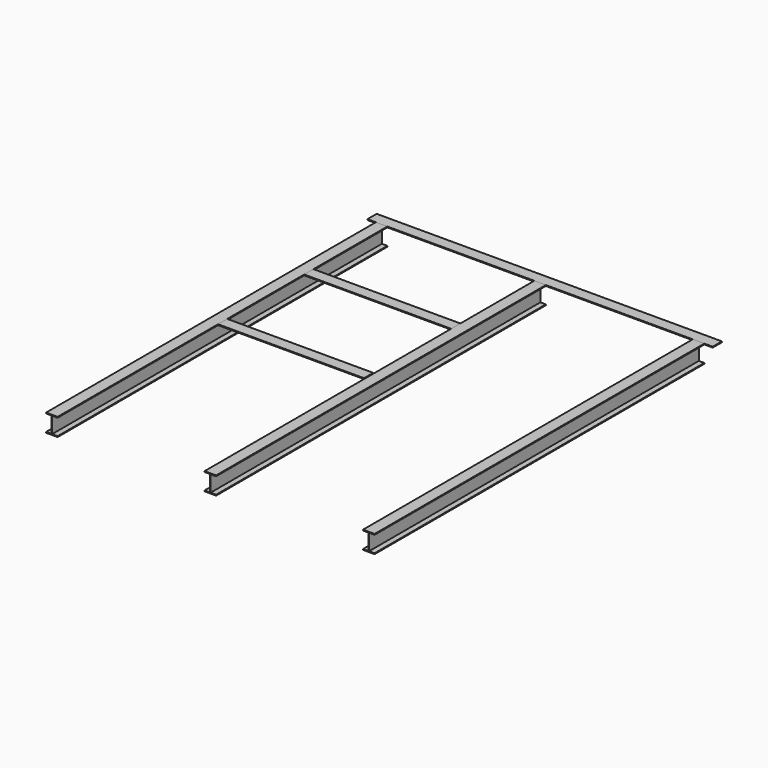
from build123d import *

# Parameters (mm, degrees)
F0_W     = 6.3
F0_H     = 187.6
F1_DEPTH = 4775
F2_W     = 97
F2_H     = 133.8
F2_W_2   = 1702.2
F2_W_3   = 1691.052348
F3_DEPTH = 9.6


with BuildPart() as f1:
    # F0 (on Front) → F1 (new body)
    with BuildSketch(Plane.XZ):
        Polygon((-1736.101326, 282.884297), (-1869.901326, 282.884297), (-1869.901326, 273.284297), (-1806.151326, 273.284297), (-1799.851326, 273.284297), (-1736.101326, 273.284297), align=None)
        with Locations((-1803.001326, 179.484297)):
            Rectangle(F0_W, F0_H)
        Polygon((-1799.851326, 85.684297), (-1806.151326, 85.684297), (-1869.901326, 85.684297), (-1869.901326, 76.084297), (-1736.101326, 76.084297), (-1736.101326, 85.684297), align=None)
        with Locations((32.998674, 179.484297)):
            Rectangle(F0_W, F0_H)
        Polygon((-33.901326, 76.084297), (99.898674, 76.084297), (99.898674, 85.684297), (36.148674, 85.684297), (29.848674, 85.684297), (-33.901326, 85.684297), align=None)
        Polygon((29.848674, 273.284297), (36.148674, 273.284297), (99.898674, 273.284297), (99.898674, 282.884297), (-33.901326, 282.884297), (-33.901326, 273.284297), align=None)
        Polygon((1935.898674, 282.884297), (1802.098674, 282.884297), (1802.098674, 273.284297), (1865.848674, 273.284297), (1872.148674, 273.284297), (1935.898674, 273.284297), align=None)
        with Locations((1868.998674, 179.484297)):
            Rectangle(F0_W, F0_H)
        Polygon((1872.148674, 85.684297), (1865.848674, 85.684297), (1802.098674, 85.684297), (1802.098674, 76.084297), (1935.898674, 76.084297), (1935.898674, 85.684297), align=None)
    extrude(amount=F1_DEPTH)


with BuildPart() as f3:
    # F2 (on face) → F3 (new body)
    with BuildSketch(Plane.XY.offset(282.884297)):
        Polygon((-1869.901326, 133.8), (-1869.901326, 0), (-1736.101326, 0), (1935.898674, 0), (1935.898674, 133.8), align=None)
        with Locations((-1918.401326, 66.9)):
            Rectangle(F2_W, F2_H)
        with Locations((1984.398674, 66.9)):
            Rectangle(F2_W, F2_H)
        with Locations((-885.001326, -1137.1)):
            Rectangle(F2_W_2, F2_H)
        with Locations((-890.575152, -2385.1)):
            Rectangle(F2_W_3, F2_H)
    extrude(amount=-F3_DEPTH)


solid = Compound([f1.part, f3.part])
